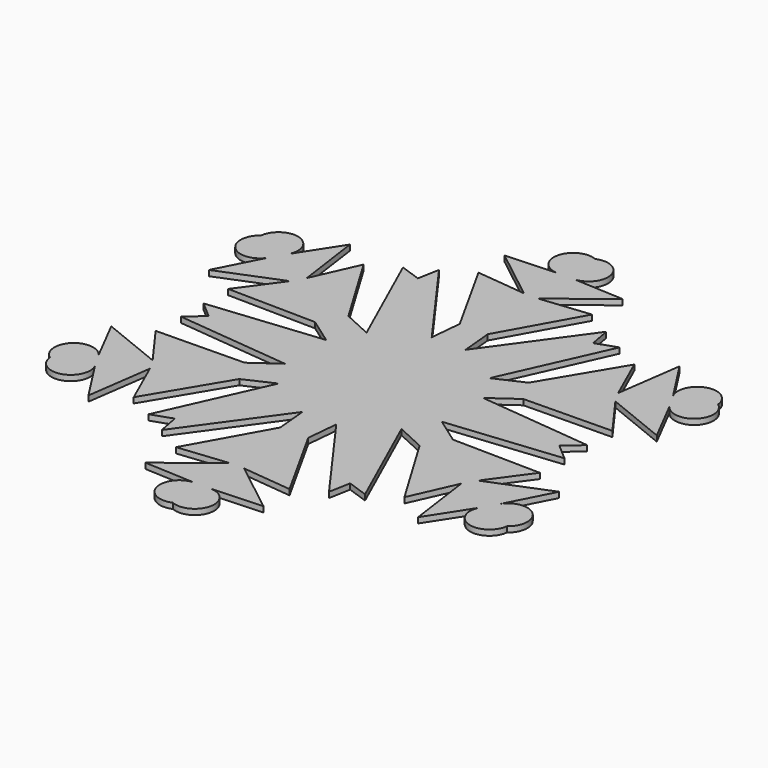
from build123d import *

# Parameters (mm, degrees)
F1_DEPTH = 2
F4_COUNT = 6
F4_ANGLE = 300


with BuildPart() as f1:
    # F0 (on Top) → F1 (new body)
    with BuildSketch(Plane.XY):
        with BuildLine():
            Line((0, 95), (0, 82.2314136744))
            ThreePointArc((0, 82.2314136744), (1.6812792043, 81.736834508), (3.4327861377, 81.677405755))
            ThreePointArc((3.4327861377, 81.677405755), (9.5389305529, 90.3543086779), (0, 95))
        make_face()
        with BuildLine():
            ThreePointArc((3.4327861377, 81.677405755), (1.6812792043, 81.736834508), (0, 82.2314136744))
            Line((0, 82.2314136744), (0, 0))
            Line((0, 0), (5.8111646213, 0))
            Line((5.8111646213, 0), (32.2307050228, 51.1501394212))
            Line((32.2307050228, 51.1501394212), (30.095031485, 62.3711198568))
            Line((30.095031485, 62.3711198568), (6.0886708088, 29.0896948427))
            Line((6.0886708088, 29.0896948427), (5.0296979025, 40.3754748404))
            Line((5.0296979025, 40.3754748404), (20.4256810248, 68.0427178741))
            Line((20.4256810248, 68.0427178741), (2.5684384163, 66.1806464195))
            Line((2.5684384163, 66.1806464195), (21.2782546878, 80.7941183448))
            Line((21.2782546878, 80.7941183448), (3.4327861377, 81.677405755))
        make_face()
    extrude(amount=F1_DEPTH)

    # F2: F1 across plane


with BuildPart() as f1_1:
    add(f1.part)
    add(f1.part.mirror(Plane.YZ))

    # F4: F1 ×6 about axis
    f4_axis = Axis((0, 0, 4.1130185127), (0, 0, 1))


with BuildPart() as f1_2:
    add(f1_1.part)
    for i in range(1, F4_COUNT):
        add(f1_1.part.rotate(f4_axis, i * F4_ANGLE / (F4_COUNT - 1)))


solid = f1_2.part
